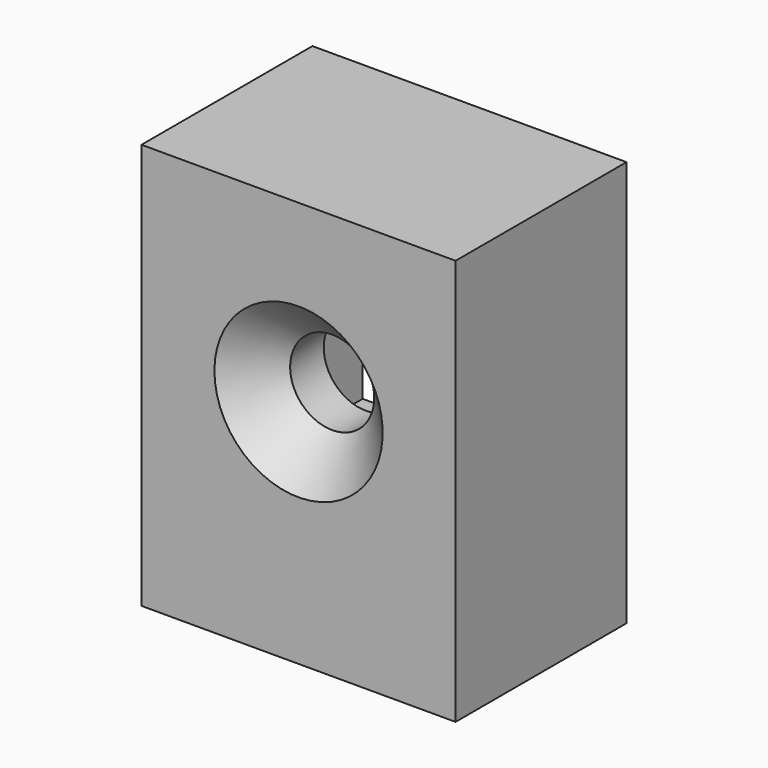
from build123d import *

# Parameters (mm, degrees)
F0_W           = 7.4676
F0_H           = 9.652
F0_R           = 1
F1_DEPTH       = 5.08
F2_D           = 2
F2_CSINK_D     = 4
F2_CSINK_ANGLE = 90
F3_W           = 5.08
F3_H           = 5.658844
F3_R           = 1
F4_DEPTH       = 3.08102


with BuildPart() as f1:
    # F0 (on Front) → F1 (new body)
    with BuildSketch(Plane.XZ):
        Rectangle(F0_W, F0_H)
        with Locations((0, 0.6604)):
            Circle(F0_R, mode=Mode.SUBTRACT)
        with Locations((0, 0.6604)):
            Circle(F0_R)
    extrude(amount=-F1_DEPTH)

    # F2 (through all)
    with Locations(Plane.XZ):
        with Locations((0, 0.6604)):
            CounterSinkHole(F2_D / 2, F2_CSINK_D / 2, counter_sink_angle=F2_CSINK_ANGLE)

    # F3 (on face) → F4 (cut)
    with BuildSketch(Plane(origin=(0, 5.08, 0), x_dir=(-1, 0, 0), z_dir=(0, 1, 0))):
        with Locations((0, 0.6604)):
            Rectangle(F3_W, F3_H)
        with Locations((0, 0.6604)):
            Circle(F3_R, mode=Mode.SUBTRACT)
    extrude(amount=-F4_DEPTH, mode=Mode.SUBTRACT)


solid = f1.part
